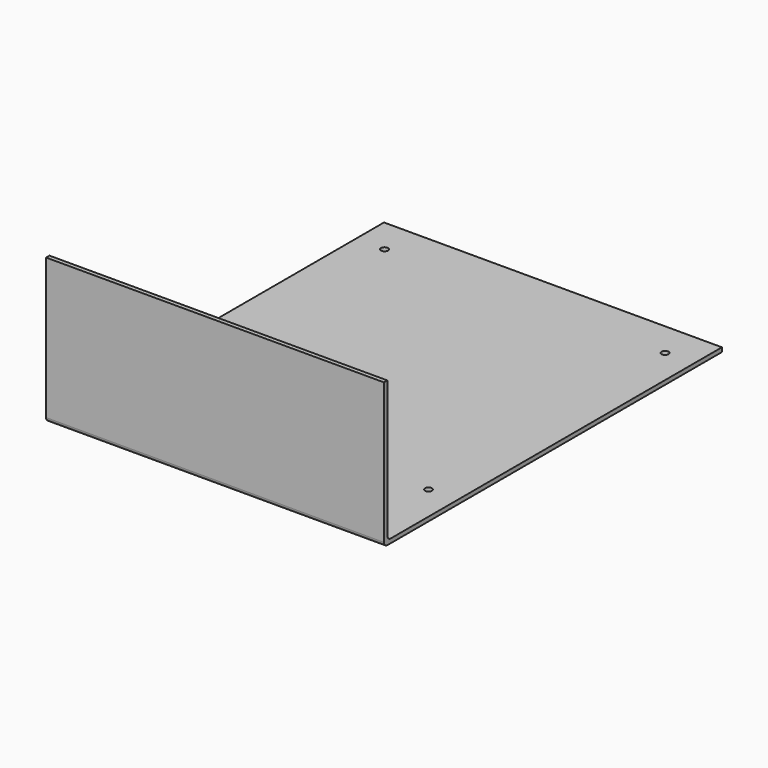
from build123d import *

# Parameters (mm, degrees)
F0_W     = 240
F0_H     = 3
F1_DEPTH = 300
F3_DEPTH = 25
F4_W     = 240
F4_H     = 3
F5_DEPTH = 100
F6_R     = 3


with BuildPart() as f1:
    # F0 (on Front) → F1 (new body)
    with BuildSketch(Plane.XZ):
        Rectangle(F0_W, F0_H)
    extrude(amount=F1_DEPTH)

    # F2 (on face) → F3 (cut)
    with BuildSketch(Plane.XY.offset(1.5)):
        with BuildLine():
            ThreePointArc((-97.11, -25), (-99.61, -22.5), (-102.11, -25))
            Line((-102.11, -25), (-97.11, -25))
        make_face()
        with BuildLine():
            ThreePointArc((102.11, -25), (99.61, -22.5), (97.11, -25))
            Line((97.11, -25), (102.11, -25))
        make_face()
        with BuildLine():
            Line((102.11, -25), (97.11, -25))
            ThreePointArc((97.11, -25), (99.61, -27.5), (102.11, -25))
        make_face()
        with BuildLine():
            Line((-97.11, -25), (-102.11, -25))
            ThreePointArc((-102.11, -25), (-99.61, -27.5), (-97.11, -25))
        make_face()
        with BuildLine():
            ThreePointArc((-97.11, -235), (-99.61, -232.5), (-102.11, -235))
            Line((-102.11, -235), (-97.11, -235))
        make_face()
        with BuildLine():
            ThreePointArc((102.11, -235), (99.61, -232.5), (97.11, -235))
            Line((97.11, -235), (102.11, -235))
        make_face()
        with BuildLine():
            Line((102.11, -235), (97.11, -235))
            ThreePointArc((97.11, -235), (99.61, -237.5), (102.11, -235))
        make_face()
        with BuildLine():
            Line((-97.11, -235), (-102.11, -235))
            ThreePointArc((-102.11, -235), (-99.61, -237.5), (-97.11, -235))
        make_face()
    extrude(amount=-F3_DEPTH, mode=Mode.SUBTRACT)

    # F4 (on face) → F5 (join)
    with BuildSketch(Plane.XY.offset(1.5)):
        with Locations((0, -298.5)):
            Rectangle(F4_W, F4_H)
    extrude(amount=F5_DEPTH)

    # F6
    f6_edges = [f1.edges().sort_by_distance(p)[0] for p in [
        (0, -297, 1.5),
        (0, -300, -1.5),
    ]]
    fillet(f6_edges, radius=F6_R)


solid = f1.part
